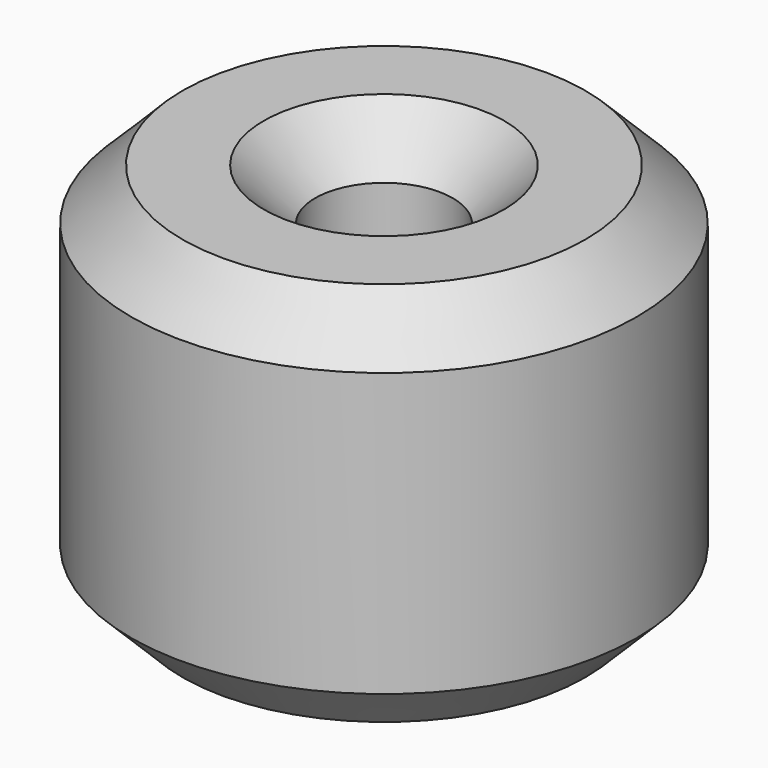
from build123d import *

# Parameters (mm, degrees)
F0_R     = 12.5
F1_DEPTH = 19.05
F2_R     = 3.4
F3_DEPTH = 25.4
F4_SIZE  = 2.54


with BuildPart() as f1:
    # F0 (on Top) → F1 (new body)
    with BuildSketch(Plane.XY):
        Circle(F0_R)
    extrude(amount=F1_DEPTH)

    # F2 (on face) → F3 (cut)
    with BuildSketch(Plane.XY.offset(19.05)):
        Circle(F2_R)
    extrude(amount=-F3_DEPTH, mode=Mode.SUBTRACT)

    # F4
    f4_edges = [f1.edges().sort_by_distance(p)[0] for p in [
        (-3.4, 0, 19.05),
        (-3.4, 0, 0),
        (-12.5, 0, 0),
        (-12.5, 0, 19.05),
    ]]
    chamfer(f4_edges, length=F4_SIZE)


solid = f1.part
